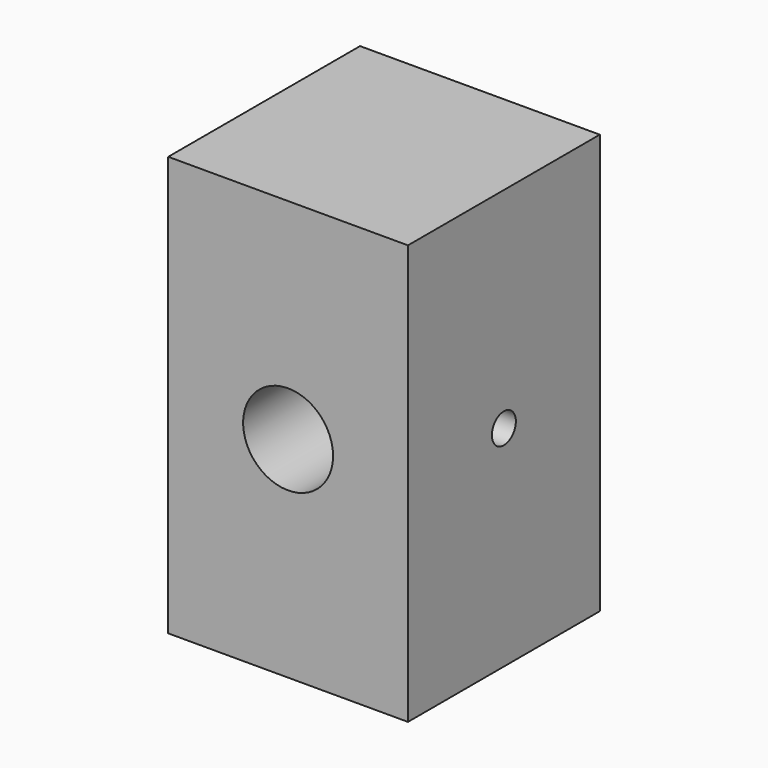
from build123d import *

# Parameters (mm, degrees)
F0_W     = 25.4
F0_H     = 25.4
F1_DEPTH = 44.45
F2_R     = 4.7625
F3_DEPTH = 25.401
F4_R     = 1.5875
F5_DEPTH = 12.7
F6_R     = 3.175
F7_DEPTH = 12.7


with BuildPart() as f1:
    # F0 (on Top) → F1 (new body)
    with BuildSketch(Plane.XY):
        Rectangle(F0_W, F0_H)
    extrude(amount=F1_DEPTH)

    # F2 (on face) → F3 (cut, through all)
    with BuildSketch(Plane.XZ.offset(12.7)):
        with Locations((0, 22.225)):
            Circle(F2_R)
    extrude(amount=-F3_DEPTH, mode=Mode.SUBTRACT)

    # F4 (on face) → F5 (cut)
    with BuildSketch(Plane.YZ.offset(12.7)):
        with Locations((0, 22.225)):
            Circle(F4_R)
    extrude(amount=-F5_DEPTH, mode=Mode.SUBTRACT)

    # F6 (on face) → F7 (cut)
    with BuildSketch(Plane(origin=(-12.7, 0, 0), x_dir=(0, -1, 0), z_dir=(-1, 0, 0))):
        with Locations((0, 33.3375)):
            Circle(F6_R)
        with Locations((0, 11.1125)):
            Circle(F6_R)
    extrude(amount=-F7_DEPTH, mode=Mode.SUBTRACT)


solid = f1.part
